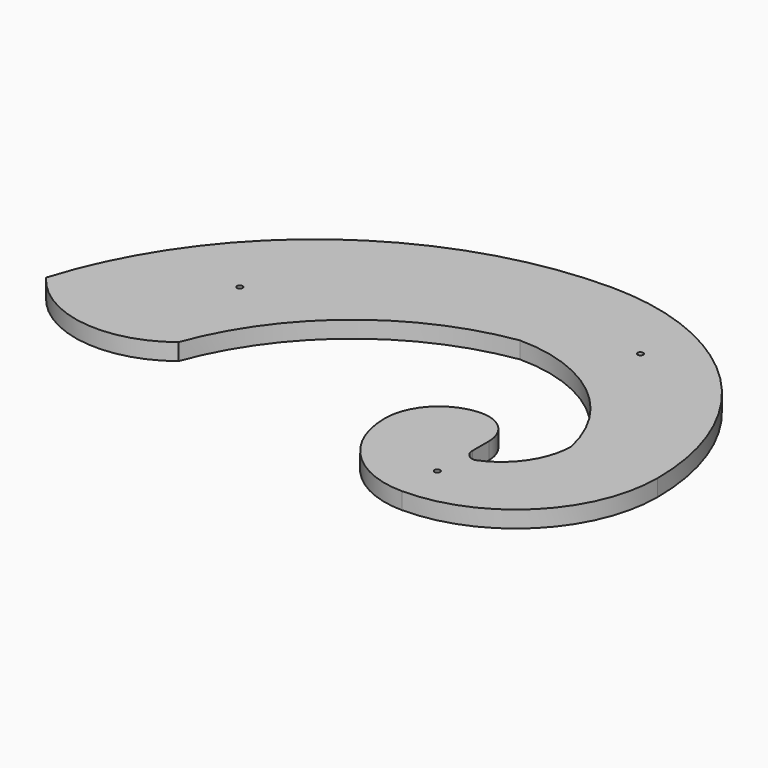
from build123d import *

# Parameters (mm, degrees)
F0_R     = 3.175
F1_DEPTH = 19.05


with BuildPart() as f1:
    # F0 (on Top) → F1 (new body)
    with BuildSketch(Plane.XY):
        with BuildLine():
            Line((38.1, -23.622), (38.1, 0))
            ThreePointArc((38.1, 0), (26.940768, 26.940768), (0, 38.1))
            ThreePointArc((0, 38.1), (-43.644045, 20.022045), (-61.722, -23.622))
            ThreePointArc((-61.722, -23.622), (-32.484813, -94.206813), (38.1, -123.444))
            ThreePointArc((38.1, -123.444), (152.328858, -76.128858), (199.644, 38.1))
            ThreePointArc((199.644, 38.1), (123.091671, 222.913671), (-61.722, 299.466))
            ThreePointArc((-61.722, 299.466), (-313.363775, 216.451992), (-466.214827, 0))
            ThreePointArc((-466.214827, 0), (-386.455471, -47.75512), (-296.679646, -23.622))
            ThreePointArc((-296.679646, -23.622), (-205.519058, 104.719324), (-61.722, 168.783))
            ThreePointArc((-61.722, 168.783), (42.886384, 132.093278), (101.65979, 38.1))
            ThreePointArc((101.65979, 38.1), (87.730333, -6.970368), (50.8, -36.322))
            ThreePointArc((50.8, -36.322), (41.819744, -32.602256), (38.1, -23.622))
        make_face()
        with Locations((38.1, -73.533)):
            Circle(F0_R, mode=Mode.SUBTRACT)
        with Locations((-320.394402, 93.512357)):
            Circle(F0_R, mode=Mode.SUBTRACT)
        with Locations((38.1, 215.551868)):
            Circle(F0_R, mode=Mode.SUBTRACT)
    extrude(amount=F1_DEPTH)


solid = f1.part
